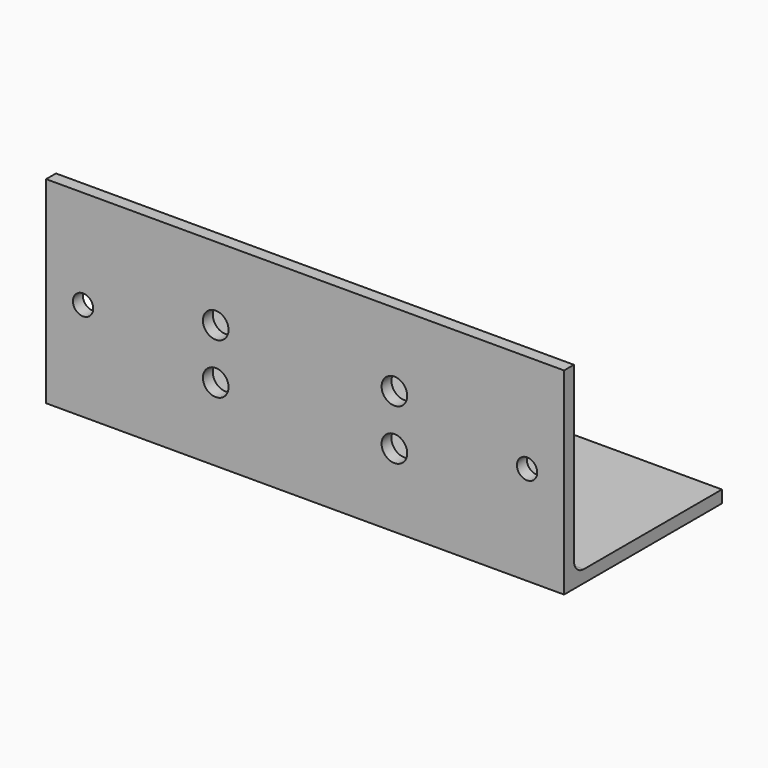
from build123d import *

# Parameters (mm, degrees)
F1_DEPTH = 133.35
F2_R     = 2.6162
F2_R_2   = 3.3
F2_R_3   = 3.302
F3_DEPTH = 50.801


with BuildPart() as f1:
    # F0 (on Right) → F1 (new body)
    with BuildSketch(Plane.YZ):
        with BuildLine():
            Line((0, -44.45), (0, 0))
            Line((0, 0), (-3.175, 0))
            Line((-3.175, 0), (-3.175, -50.8))
            Line((-3.175, -50.8), (47.625, -50.8))
            Line((47.625, -50.8), (47.625, -47.625))
            Line((47.625, -47.625), (3.175, -47.625))
            ThreePointArc((3.175, -47.625), (0.929936, -46.695064), (0, -44.45))
        make_face()
    extrude(amount=-F1_DEPTH)

    # F2 (on face) → F3 (cut, through all)
    with BuildSketch(Plane.XZ.offset(3.175)):
        with Locations((-123.825, -25.4)):
            Circle(F2_R)
        with Locations((-9.525, -25.4)):
            Circle(F2_R)
        with Locations((-89.6747, -18.8976)):
            Circle(F2_R_2)
        with Locations((-89.6747, -31.9024)):
            Circle(F2_R_2)
        with Locations((-43.6753, -18.8976)):
            Circle(F2_R_3)
        with Locations((-43.6753, -31.9024)):
            Circle(F2_R_3)
    extrude(amount=-F3_DEPTH, mode=Mode.SUBTRACT)


solid = f1.part
